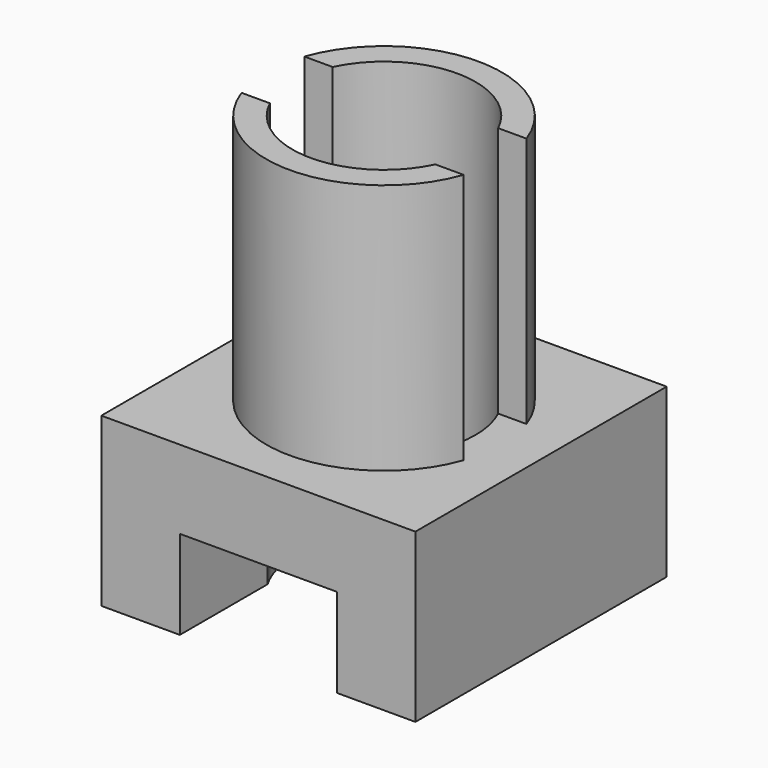
from build123d import *

# Parameters (mm, degrees)
F0_W     = 60
F0_H     = 60
F1_DEPTH = 32
F3_DEPTH = 48
F5_DEPTH = 32
F6_W     = 30
F6_H     = 17
F7_DEPTH = 60


with BuildPart() as f1:
    # F0 (on Top) → F1 (new body)
    with BuildSketch(Plane.XY):
        Rectangle(F0_W, F0_H)
    extrude(amount=F1_DEPTH)

    # F2 (on face) → F3 (join)
    with BuildSketch(Plane.XY.offset(32)):
        with BuildLine():
            Line((15.811388, 7.5), (21.213203, 7.5))
            ThreePointArc((21.213203, 7.5), (0, 22.5), (-21.213203, 7.5))
            Line((-21.213203, 7.5), (-15.811388, 7.5))
            ThreePointArc((-15.811388, 7.5), (0, 17.5), (15.811388, 7.5))
        make_face()
        with BuildLine():
            ThreePointArc((15.811388, -7.5), (0, -17.5), (-15.811388, -7.5))
            Line((-15.811388, -7.5), (-21.213203, -7.5))
            ThreePointArc((-21.213203, -7.5), (0, -22.5), (21.213203, -7.5))
            Line((21.213203, -7.5), (15.811388, -7.5))
        make_face()
    extrude(amount=F3_DEPTH)

    # F4 (on face) → F5 (cut)
    with BuildSketch(Plane.XY.offset(32)):
        with BuildLine():
            ThreePointArc((15.811388, -7.5), (17.072629, -3.843872), (17.5, 0))
            ThreePointArc((17.5, 0), (17.072629, 3.843872), (15.811388, 7.5))
            ThreePointArc((15.811388, 7.5), (0, 17.5), (-15.811388, 7.5))
            ThreePointArc((-15.811388, 7.5), (-17.5, 0), (-15.811388, -7.5))
            ThreePointArc((-15.811388, -7.5), (0, -17.5), (15.811388, -7.5))
        make_face()
    extrude(amount=-F5_DEPTH, mode=Mode.SUBTRACT)

    # F6 (on face) → F7 (cut)
    with BuildSketch(Plane.XZ.offset(30)):
        with Locations((0, 8.5)):
            Rectangle(F6_W, F6_H)
    extrude(amount=-F7_DEPTH, mode=Mode.SUBTRACT)


solid = f1.part
